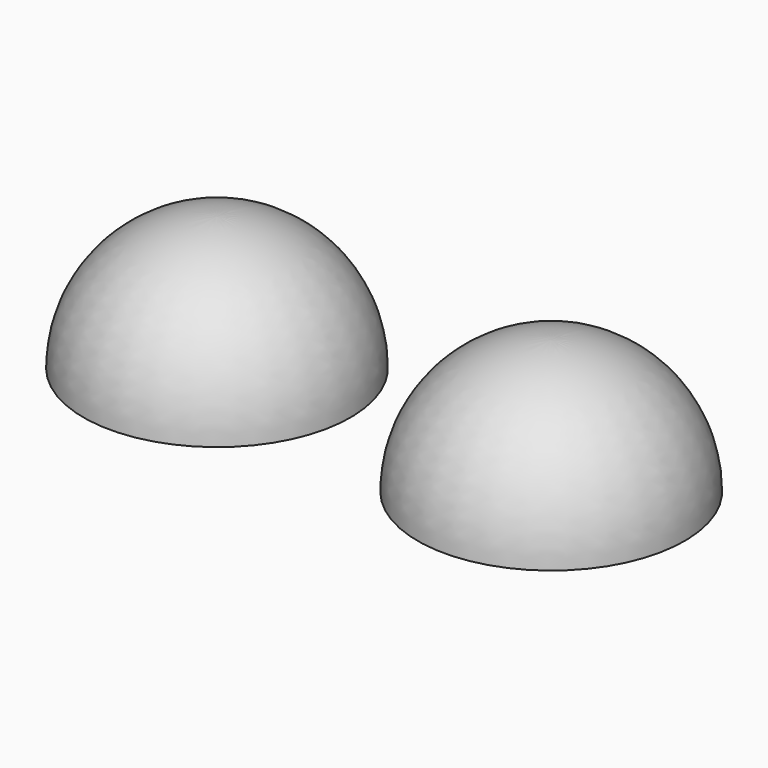
from build123d import *


with BuildPart() as f1:
    # F0 (on Right) → F1 (revolve)
    with BuildSketch(Plane.YZ):
        with BuildLine():
            Line((0, 15.219173), (0, 0))
            Line((0, 0), (15.219173, 0))
            ThreePointArc((15.219173, 0), (10.761581, 10.761581), (0, 15.219173))
        make_face()
    revolve(axis=Axis((0, 0, 7.609587), (0, 0, 1)))


with BuildPart() as f2_1:
    # F2: copy of F1
    add(f1.part.moved(Location((38.1, 0, 0))))


solid = Compound([f1.part, f2_1.part])
